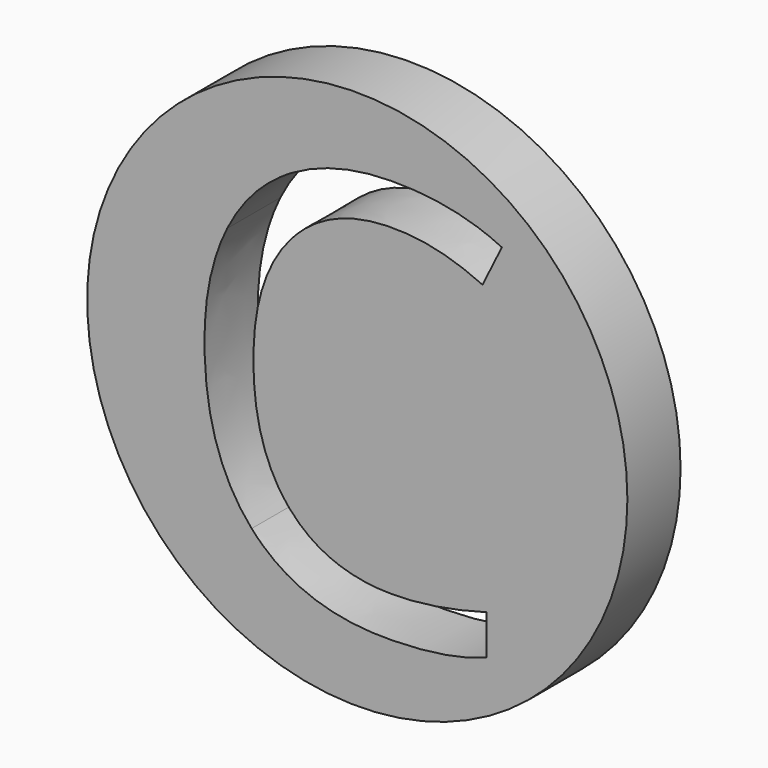
from build123d import *

# Parameters (mm, degrees)
F0_R     = 20.3154651548
F1_DEPTH = 5


with BuildPart() as f1:
    # F0 (on Front) → F1 (new body)
    with BuildSketch(Plane.XZ):
        Circle(F0_R)
        with BuildLine():
            add(Edge.make_bspline(
                [(9.4187494535, 10.6477292851), (6.059571847, 12.2205234246), (2.7003942405, 12.2205234246)],
                knots=[0, 0, 0, 1, 1, 1], degree=2))
            add(Edge.make_bspline(
                [(2.7003942405, 12.2205234246), (-2.1733258707, 12.2205234246), (-4.9952939563, 8.9746128858)],
                knots=[0, 0, 0, 1, 1, 1], degree=2))
            add(Edge.make_bspline(
                [(-4.9952939563, 8.9746128858), (-7.8172620419, 5.7287023469), (-7.8172620419, 0.0847661757)],
                knots=[0, 0, 0, 1, 1, 1], degree=2))
            add(Edge.make_bspline(
                [(-7.8172620419, 0.0847661757), (-7.8172620419, -5.7145076884), (-5.0956162162, -8.8827493808)],
                knots=[0, 0, 0, 1, 1, 1], degree=2))
            add(Edge.make_bspline(
                [(-5.0956162162, -8.8827493808), (-2.3739703905, -12.0509910733), (2.6615598173, -12.0509910733)],
                knots=[0, 0, 0, 1, 1, 1], degree=2))
            add(Edge.make_bspline(
                [(2.6615598173, -12.0509910733), (5.7553688653, -12.0509910733), (9.7229524352, -10.9377376083)],
                knots=[0, 0, 0, 1, 1, 1], degree=2))
            Line((9.7229524352, -10.9377376083), (9.7229524352, -13.9474054061))
            add(Edge.make_bspline(
                [(9.7229524352, -13.9474054061), (6.6485605988, -15.1059656981), (2.1372951041, -15.1059656981)],
                knots=[0, 0, 0, 1, 1, 1], degree=2))
            add(Edge.make_bspline(
                [(2.1372951041, -15.1059656981), (-4.3933603968, -15.1059656981), (-7.9434739173, -11.1383821282)],
                knots=[0, 0, 0, 1, 1, 1], degree=2))
            add(Edge.make_bspline(
                [(-7.9434739173, -11.1383821282), (-11.4935874379, -7.1707985583), (-11.4935874379, 0.1300730027)],
                knots=[0, 0, 0, 1, 1, 1], degree=2))
            add(Edge.make_bspline(
                [(-11.4935874379, 0.1300730027), (-11.4935874379, 4.6995901322), (-9.7848728172, 8.1364365851)],
                knots=[0, 0, 0, 1, 1, 1], degree=2))
            add(Edge.make_bspline(
                [(-9.7848728172, 8.1364365851), (-8.0761581966, 11.573283038), (-4.8496648693, 13.4340991495)],
                knots=[0, 0, 0, 1, 1, 1], degree=2))
            add(Edge.make_bspline(
                [(-4.8496648693, 13.4340991495), (-1.6231715421, 15.294915261), (2.7457010675, 15.294915261)],
                knots=[0, 0, 0, 1, 1, 1], degree=2))
            add(Edge.make_bspline(
                [(2.7457010675, 15.294915261), (7.3928870434, 15.294915261), (10.8750403234, 13.5991454481)],
                knots=[0, 0, 0, 1, 1, 1], degree=2))
            Line((10.8750403234, 13.5991454481), (9.4187494535, 10.6477292851))
        make_face(mode=Mode.SUBTRACT)
    extrude(amount=F1_DEPTH)


solid = f1.part
